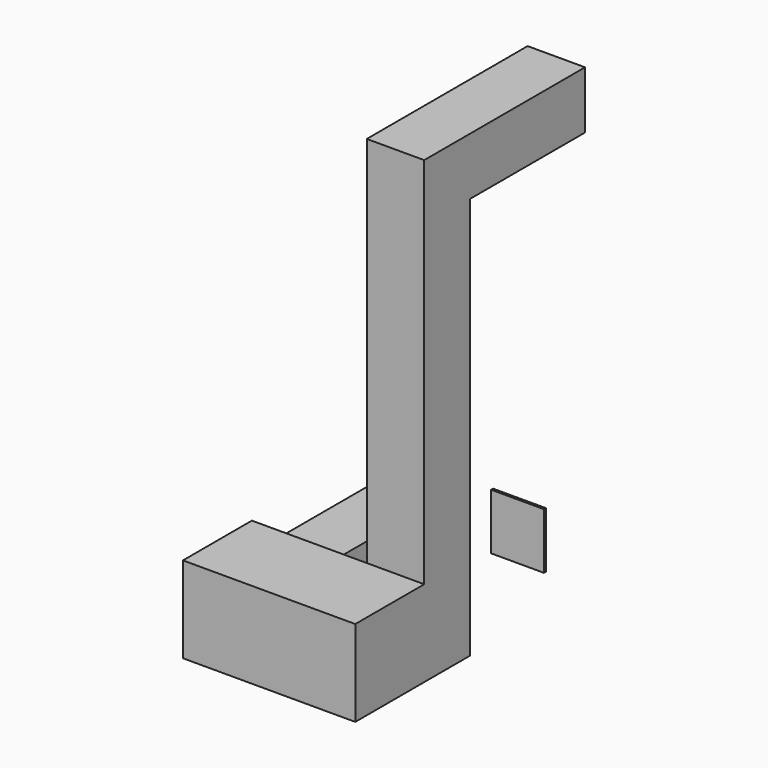
from build123d import *

# Parameters (mm, degrees)
F0_W     = 609.6
F0_H     = 609.6
F1_DEPTH = 4876.8
F2_W     = 609.6
F2_H     = 609.6
F3_DEPTH = 1524
F4_W     = 1219.2
F4_H     = 914.4
F4_W_2   = 609.6
F5_DEPTH = 914.4
F6_W     = 559.813217
F6_H     = 594.749077
F7_DEPTH = 25.4
F8_W     = 609.6
F8_H     = 609.6
F9_DEPTH = 1524


with BuildPart() as f1:
    # F0 (on Top) → F1 (new body)
    with BuildSketch(Plane.XY):
        with Locations((304.8, -304.8)):
            Rectangle(F0_W, F0_H)
    extrude(amount=F1_DEPTH)

    # F2 (on face) → F3 (join)
    with BuildSketch(Plane(origin=(0, 0, 0), x_dir=(-1, 0, 0), z_dir=(0, 1, 0))):
        with Locations((-304.8, 4572)):
            Rectangle(F2_W, F2_H)
    extrude(amount=F3_DEPTH)

    # F4 (on face) → F5 (join)
    with BuildSketch(Plane.XZ.offset(609.6)):
        with Locations((-609.6, 457.2)):
            Rectangle(F4_W, F4_H)
        with Locations((304.8, 457.2)):
            Rectangle(F4_W_2, F4_H)
    extrude(amount=F5_DEPTH)

    # F8 (on face) → F9 (join)
    with BuildSketch(Plane(origin=(0, -609.6, 0), x_dir=(-1, 0, 0), z_dir=(0, 1, 0))):
        with Locations((914.4, 304.8)):
            Rectangle(F8_W, F8_H)
    extrude(amount=F9_DEPTH)


with BuildPart() as f7:
    # F6 (on face) → F7 (new body)
    with BuildSketch(Plane(origin=(0, 1524, 0), x_dir=(-1, 0, 0), z_dir=(0, 1, 0))):
        with Locations((107.03545, 308.909066)):
            Rectangle(F6_W, F6_H)
    extrude(amount=F7_DEPTH)


solid = Compound([f1.part, f7.part])
